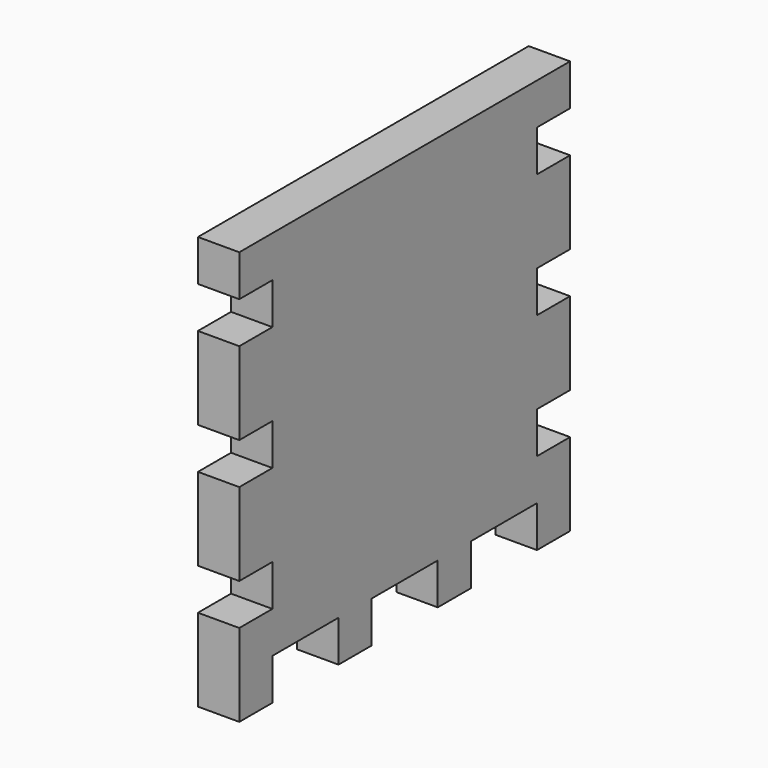
from build123d import *

# Parameters (mm, degrees)
F0_W      = 100
F0_H      = 100
F1_DEPTH  = 10
F2_W      = 20
F2_H      = 10
F3_DEPTH  = 10
F4_W      = 20
F4_H      = 10
F5_DEPTH  = 10
F6_W      = 20
F6_H      = 10
F7_DEPTH  = 10
F8_W      = 10
F8_H      = 10
F9_DEPTH  = 10
F10_W     = 10
F10_H     = 10
F11_DEPTH = 10
F12_W     = 10
F12_H     = 10
F13_DEPTH = 10
F14_W     = 10
F14_H     = 10
F15_DEPTH = 10
F16_W     = 10
F16_H     = 10
F17_DEPTH = 10
F18_W     = 10
F18_H     = 10
F19_DEPTH = 10


with BuildPart() as f1:
    # F0 (on Right) → F1 (new body)
    with BuildSketch(Plane.YZ):
        with Locations((11.134875, 6.03618)):
            Rectangle(F0_W, F0_H)
    extrude(amount=F1_DEPTH)

    # F2 (on face) → F3 (cut)
    with BuildSketch(Plane.YZ.offset(10)):
        with Locations((-18.865125, -38.96382)):
            Rectangle(F2_W, F2_H)
    extrude(amount=-F3_DEPTH, mode=Mode.SUBTRACT)

    # F4 (on face) → F5 (cut)
    with BuildSketch(Plane.YZ.offset(10)):
        with Locations((11.134875, -38.96382)):
            Rectangle(F4_W, F4_H)
    extrude(amount=-F5_DEPTH, mode=Mode.SUBTRACT)

    # F6 (on face) → F7 (cut)
    with BuildSketch(Plane.YZ.offset(10)):
        with Locations((41.134875, -38.96382)):
            Rectangle(F6_W, F6_H)
    extrude(amount=-F7_DEPTH, mode=Mode.SUBTRACT)

    # F8 (on face) → F9 (cut)
    with BuildSketch(Plane.YZ.offset(10)):
        with Locations((-33.865125, -18.96382)):
            Rectangle(F8_W, F8_H)
    extrude(amount=-F9_DEPTH, mode=Mode.SUBTRACT)

    # F10 (on face) → F11 (cut)
    with BuildSketch(Plane.YZ.offset(10)):
        with Locations((-33.865125, 11.03618)):
            Rectangle(F10_W, F10_H)
    extrude(amount=-F11_DEPTH, mode=Mode.SUBTRACT)

    # F12 (on face) → F13 (cut)
    with BuildSketch(Plane.YZ.offset(10)):
        with Locations((-33.865125, 41.03618)):
            Rectangle(F12_W, F12_H)
    extrude(amount=-F13_DEPTH, mode=Mode.SUBTRACT)

    # F14 (on face) → F15 (cut)
    with BuildSketch(Plane.YZ.offset(10)):
        with Locations((56.134875, -18.96382)):
            Rectangle(F14_W, F14_H)
    extrude(amount=-F15_DEPTH, mode=Mode.SUBTRACT)

    # F16 (on face) → F17 (cut)
    with BuildSketch(Plane.YZ.offset(10)):
        with Locations((56.134875, 11.03618)):
            Rectangle(F16_W, F16_H)
    extrude(amount=-F17_DEPTH, mode=Mode.SUBTRACT)

    # F18 (on face) → F19 (cut)
    with BuildSketch(Plane.YZ.offset(10)):
        with Locations((56.134875, 41.03618)):
            Rectangle(F18_W, F18_H)
    extrude(amount=-F19_DEPTH, mode=Mode.SUBTRACT)


solid = f1.part
